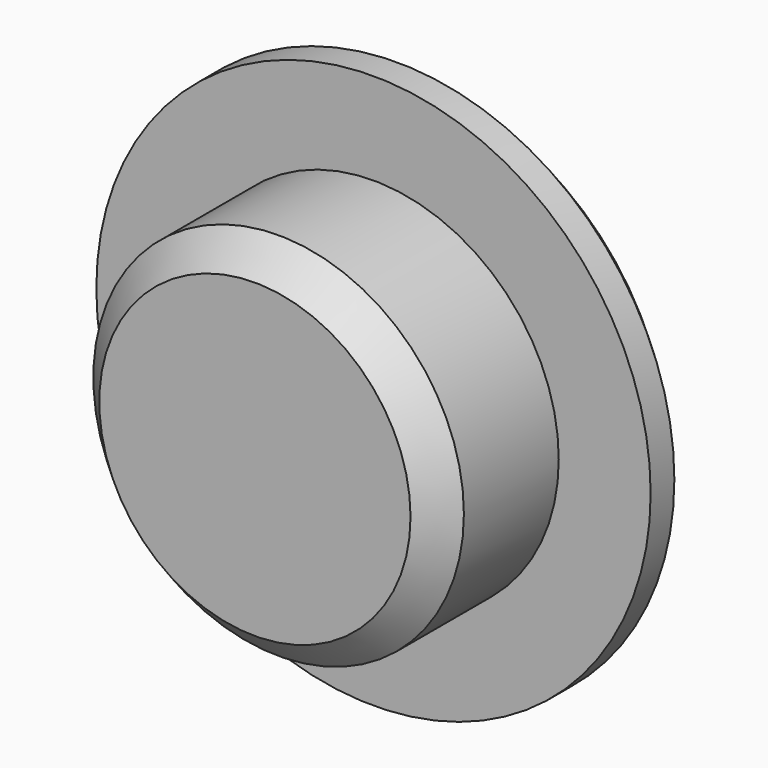
from build123d import *

# Parameters (mm, degrees)
F0_R          = 1.5875
F1_DEPTH      = 1.27
F1_DEPTH_BACK = 0.508
F0_R_2        = 2.3749
F2_DEPTH      = 0.508
F3_SIZE       = 0.254


with BuildPart() as f1:
    # F0 (on Front) → F1 (new body, two sides)
    with BuildSketch(Plane.XZ) as f1_sk:
        Circle(F0_R)
    extrude(amount=F1_DEPTH)
    extrude(f1_sk.sketch, amount=-F1_DEPTH_BACK)

    # F0 (on Front) → F2 (join)
    with BuildSketch(Plane.XZ):
        Circle(F0_R_2)
        Circle(F0_R, mode=Mode.SUBTRACT)
    extrude(amount=-F2_DEPTH)

    # F3
    f3_edges = [f1.edges().sort_by_distance(p)[0] for p in [
        (-2.3749, 0.508, 0),
        (-1.5875, -1.27, 0),
    ]]
    chamfer(f3_edges, length=F3_SIZE)


solid = f1.part
